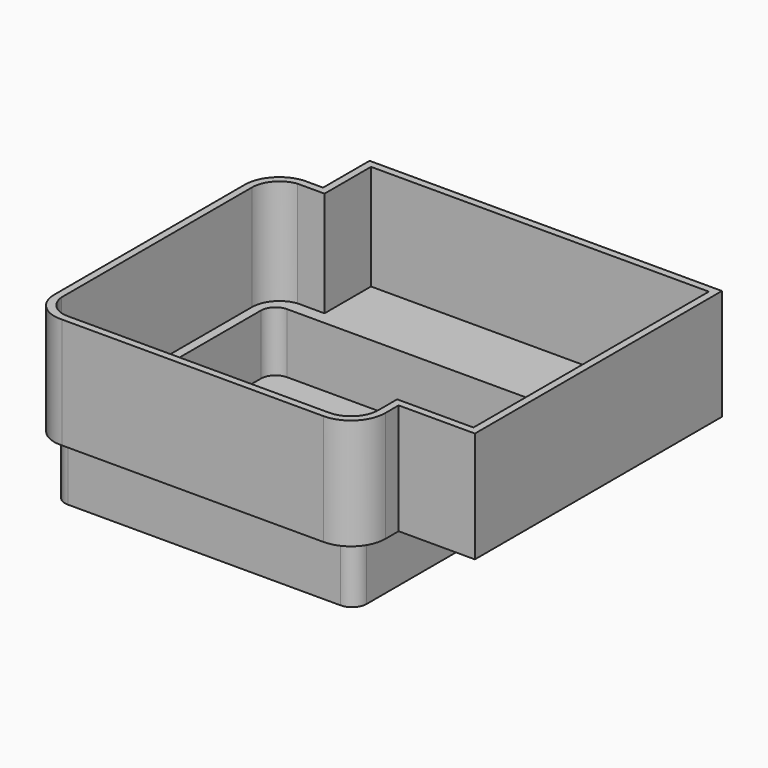
from build123d import *

# Parameters (mm, degrees)
F1_DEPTH = 1.5
F3_DEPTH = 15
F5_DEPTH = 1.5
F7_DEPTH = 29
F8_DEPTH = 29


with BuildPart() as f1:
    # F0 (on Top) → F1 (new body)
    with BuildSketch(Plane.XY):
        with BuildLine():
            ThreePointArc((41.5, 33.5), (40.3284271247, 36.3284271247), (37.5, 37.5))
            Line((37.5, 37.5), (-37.5, 37.5))
            ThreePointArc((-37.5, 37.5), (-40.3284271247, 36.3284271247), (-41.5, 33.5))
            Line((-41.5, 33.5), (-41.5, -33.5))
            ThreePointArc((-41.5, -33.5), (-40.3284271247, -36.3284271247), (-37.5, -37.5))
            Line((-37.5, -37.5), (37.5, -37.5))
            ThreePointArc((37.5, -37.5), (40.3284271247, -36.3284271247), (41.5, -33.5))
            Line((41.5, -33.5), (41.5, 33.5))
        make_face()
    extrude(amount=F1_DEPTH)

    # F2 (on face) → F3 (join)
    with BuildSketch(Plane.XY.offset(1.5)):
        with BuildLine():
            Line((41.5, -33.5), (41.5, 33.5))
            ThreePointArc((41.5, 33.5), (40.3284271247, 36.3284271247), (37.5, 37.5))
            Line((37.5, 37.5), (-37.5, 37.5))
            ThreePointArc((-37.5, 37.5), (-40.3284271247, 36.3284271247), (-41.5, 33.5))
            Line((-41.5, 33.5), (-41.5, -33.5))
            ThreePointArc((-41.5, -33.5), (-40.3284271247, -36.3284271247), (-37.5, -37.5))
            Line((-37.5, -37.5), (37.5, -37.5))
            ThreePointArc((37.5, -37.5), (40.3284271247, -36.3284271247), (41.5, -33.5))
        make_face()
        with BuildLine():
            Line((-36, 36), (36, 36))
            ThreePointArc((36, 36), (38.8284271247, 34.8284271247), (40, 32))
            Line((40, 32), (40, -32))
            ThreePointArc((40, -32), (38.8284271247, -34.8284271247), (36, -36))
            Line((36, -36), (-36, -36))
            ThreePointArc((-36, -36), (-38.8284271247, -34.8284271247), (-40, -32))
            Line((-40, -32), (-40, 32))
            ThreePointArc((-40, 32), (-38.8284271247, 34.8284271247), (-36, 36))
        make_face(mode=Mode.SUBTRACT)
    extrude(amount=F3_DEPTH)

    # F4 (on face) → F5 (join)
    with BuildSketch(Plane.XY.offset(16.5)):
        with BuildLine():
            Line((45.5, -32), (45.5, -27.5))
            Line((45.5, -27.5), (66.5, -27.5))
            Line((66.5, -27.5), (66.5, 57.5))
            Line((66.5, 57.5), (-30.5, 57.5))
            Line((-30.5, 57.5), (-30.5, 41.5))
            Line((-30.5, 41.5), (-36, 41.5))
            ThreePointArc((-36, 41.5), (-42.0648066734, 38.373774392), (-44.5, 32))
            Line((-44.5, 32), (-44.5, -33.5))
            ThreePointArc((-44.5, -33.5), (-41.9782906023, -39.336308765), (-36, -41.5))
            Line((-36, -41.5), (36, -41.5))
            ThreePointArc((36, -41.5), (42.7175144213, -38.7175144213), (45.5, -32))
        make_face()
        with BuildLine():
            Line((41.5, 33.5), (41.5, -33.5))
            ThreePointArc((41.5, -33.5), (40.3284271247, -36.3284271247), (37.5, -37.5))
            Line((37.5, -37.5), (-37.5, -37.5))
            ThreePointArc((-37.5, -37.5), (-40.3284271247, -36.3284271247), (-41.5, -33.5))
            Line((-41.5, -33.5), (-41.5, 33.5))
            ThreePointArc((-41.5, 33.5), (-40.3284271247, 36.3284271247), (-37.5, 37.5))
            Line((-37.5, 37.5), (37.5, 37.5))
            ThreePointArc((37.5, 37.5), (40.3284271247, 36.3284271247), (41.5, 33.5))
        make_face(mode=Mode.SUBTRACT)
        with BuildLine():
            ThreePointArc((37.5, -37.5), (40.3284271247, -36.3284271247), (41.5, -33.5))
            Line((41.5, -33.5), (41.5, 33.5))
            ThreePointArc((41.5, 33.5), (40.3284271247, 36.3284271247), (37.5, 37.5))
            Line((37.5, 37.5), (-37.5, 37.5))
            ThreePointArc((-37.5, 37.5), (-40.3284271247, 36.3284271247), (-41.5, 33.5))
            Line((-41.5, 33.5), (-41.5, -33.5))
            ThreePointArc((-41.5, -33.5), (-40.3284271247, -36.3284271247), (-37.5, -37.5))
            Line((-37.5, -37.5), (37.5, -37.5))
        make_face()
        with BuildLine():
            ThreePointArc((-40, 32), (-38.8284271247, 34.8284271247), (-36, 36))
            Line((-36, 36), (36, 36))
            ThreePointArc((36, 36), (38.8284271247, 34.8284271247), (40, 32))
            Line((40, 32), (40, -32))
            ThreePointArc((40, -32), (38.8284271247, -34.8284271247), (36, -36))
            Line((36, -36), (-36, -36))
            ThreePointArc((-36, -36), (-38.8284271247, -34.8284271247), (-40, -32))
            Line((-40, -32), (-40, 32))
        make_face(mode=Mode.SUBTRACT)
    extrude(amount=F5_DEPTH)

    # F6 (on face) → F7 (join)
    with BuildSketch(Plane.XY.offset(18)):
        Polygon((-36, 41.5), (-36, 39.5), (-28.5, 39.5), (-28.5, 55.5), (64.5, 55.5), (64.5, -25.5), (43.5, -25.5), (43.5, -32), (45.5, -32), (45.5, -27.5), (66.5, -27.5), (66.5, 57.5), (-30.5, 57.5), (-30.5, 41.5), align=None)
    extrude(amount=F7_DEPTH)

    # F6 (on face) → F8 (join)
    with BuildSketch(Plane.XY.offset(18)):
        with BuildLine():
            ThreePointArc((-42.5, 32), (-40.6488749734, 36.9623583103), (-36, 39.5))
            Line((-36, 39.5), (-36, 41.5))
            ThreePointArc((-36, 41.5), (-42.0648066734, 38.373774392), (-44.5, 32))
            Line((-44.5, 32), (-44.5, -33.5))
            ThreePointArc((-44.5, -33.5), (-41.9782906023, -39.336308765), (-36, -41.5))
            Line((-36, -41.5), (36, -41.5))
            ThreePointArc((36, -41.5), (42.7175144213, -38.7175144213), (45.5, -32))
            Line((45.5, -32), (43.5, -32))
            ThreePointArc((43.5, -32), (41.3033008589, -37.3033008589), (36, -39.5))
            Line((36, -39.5), (-36, -39.5))
            ThreePointArc((-36, -39.5), (-40.4229515032, -37.7706974618), (-42.5, -33.5))
            Line((-42.5, -33.5), (-42.5, 32))
        make_face()
    extrude(amount=F8_DEPTH)


solid = f1.part
